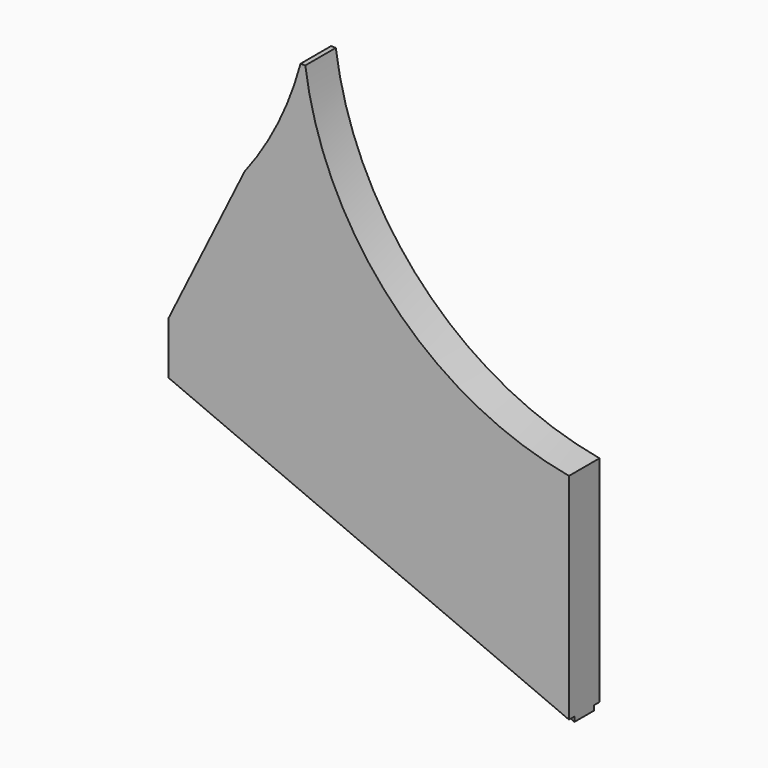
from build123d import *

# Parameters (mm, degrees)
F1_DEPTH = 25.4
F3_D     = 7.9375
F3_DEPTH = 25.4
F3_TIP   = 2.3846655818
F5_DEPTH = 4.572
F7_DEPTH = 4.572


with BuildPart() as f1:
    # F0 (on Front) → F1 (new body)
    with BuildSketch(Plane.XZ):
        with BuildLine():
            ThreePointArc((266.7, 32.3849999569), (149.0538498691, 95.5862080763), (91.0917861403, 215.8999999569))
            Line((91.0917861403, 215.8999999569), (87.9167861403, 215.8999999569))
            ThreePointArc((87.9167861403, 215.8999999569), (72.9914115298, 176.3989748545), (50.662743739, 140.5586569695))
            Line((50.662743739, 140.5586569695), (0, 38.0999999569))
            Line((0, 38.0999999569), (0, -4.31e-08))
            Line((0, -4.31e-08), (266.7, -113.7158000431))
            Line((266.7, -113.7158000431), (266.7, -4.31e-08))
            Line((266.7, -4.31e-08), (266.7, 32.3849999569))
        make_face()
    extrude(amount=F1_DEPTH)

    # F3
    with Locations(Plane(origin=(-1.56e-08, 0, -3.65e-08), x_dir=(0.9198730081, 0, -0.3922163293), z_dir=(-0.3922163293, 0, -0.9198730081))):
        with Locations((35.4106249365, 12.7), (162.7154249365, 12.7), (252.0980249365, 12.7)):
            Hole(F3_D / 2, depth=F3_DEPTH)
            with Locations((0, 0, -(F3_DEPTH + F3_TIP / 2))):  # 118° drill point
                Cone(0, F3_D / 2, F3_TIP, mode=Mode.SUBTRACT)

    # F4 (on face) → F5 (cut)
    with BuildSketch(Plane.XZ.offset(25.4)):
        Polygon((0, 3.1749999569), (0, -4.31e-08), (266.7, -113.7158000431), (266.7, -110.5408000431), align=None)
    extrude(amount=-F5_DEPTH, mode=Mode.SUBTRACT)

    # F6 (on face) → F7 (cut)
    with BuildSketch(Plane(origin=(0, 0, 0), x_dir=(-1, 0, 0), z_dir=(0, 1, 0))):
        Polygon((-266.7, -110.5408000431), (-266.7, -113.7158000431), (0, -4.31e-08), (0, 3.1749999569), align=None)
    extrude(amount=-F7_DEPTH, mode=Mode.SUBTRACT)


solid = f1.part
